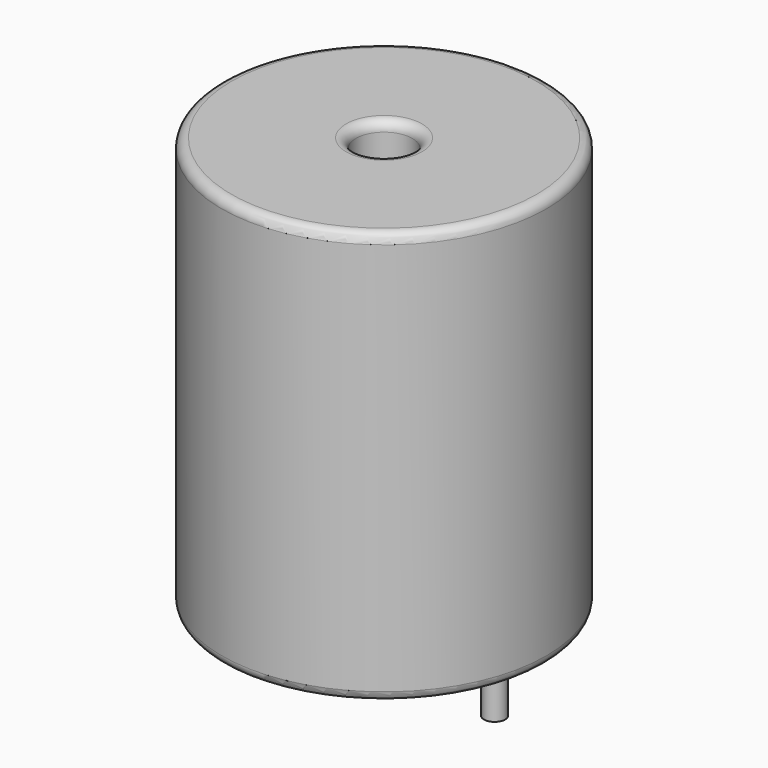
from build123d import *

# Parameters (mm, degrees)
SKETCH001_R       = 0.55
PAD001_DEPTH      = 10.67
PAD001_DEPTH_BACK = 3.5
SKETCH_R          = 8.4
SKETCH_R_2        = 1.46
PAD_DEPTH         = 21.34
FILLET_R          = 0.5


with BuildPart() as pad001:
    # Sketch001 → Pad001 (new body, two sides)
    with BuildSketch(Plane.XY.offset(0.5)) as pad001_sk:
        Circle(SKETCH001_R)
        with Locations((11.43, 0)):
            Circle(SKETCH001_R)
    extrude(amount=PAD001_DEPTH)
    extrude(pad001_sk.sketch, amount=-PAD001_DEPTH_BACK)


with BuildPart() as obj1:
    # Sketch → Pad (new body)
    with BuildSketch(Plane.XY.offset(0.1)):
        with Locations((5.715, 0)):
            Circle(SKETCH_R)
        with Locations((5.715, 0)):
            Circle(SKETCH_R_2, mode=Mode.SUBTRACT)
    extrude(amount=PAD_DEPTH)

    # Fillet
    fillet_edges = [obj1.edges().sort_by_distance(p)[0] for p in [
        (4.255, 0, 21.44),
        (-2.685, 0, 21.44),
        (-2.685, 0, 0.1),
    ]]
    fillet(fillet_edges, radius=FILLET_R)

    # obj1: union Pad001
    add(pad001.part)


solid = obj1.part
